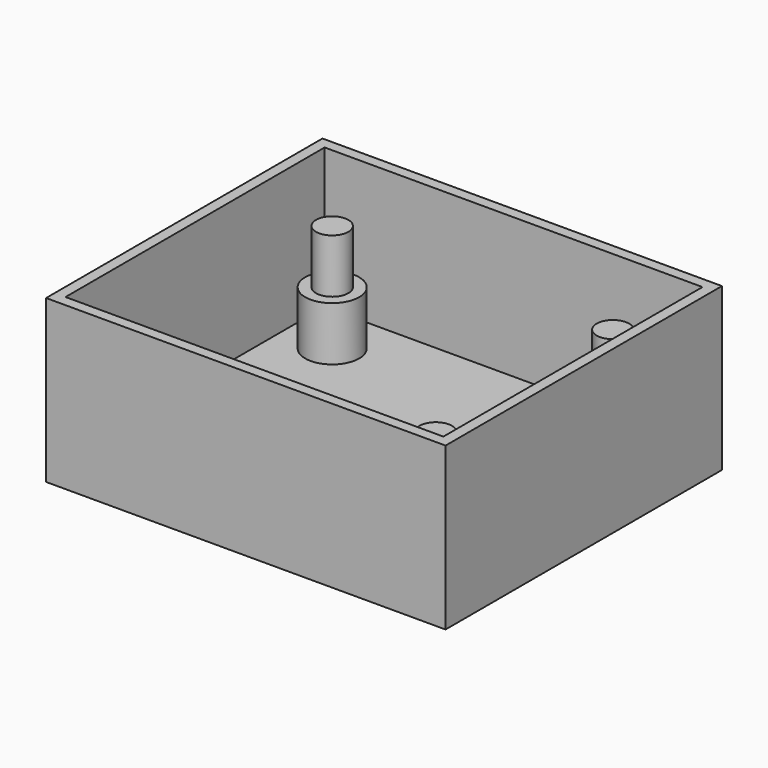
from build123d import *

# Parameters (mm, degrees)
F1_W     = 37
F1_H     = 32
F2_DEPTH = 15
F3_W     = 35
F3_H     = 30
F4_DEPTH = 13
F5_R     = 2.5
F5_R_2   = 1.5
F6_DEPTH = 5
F7_DEPTH = 10


with BuildPart() as f2:
    # F1 (on Top) → F2 (new body)
    with BuildSketch(Plane.XY):
        Rectangle(F1_W, F1_H)
    extrude(amount=F2_DEPTH)

    # F3 (on face) → F4 (cut)
    with BuildSketch(Plane.XY.offset(15)):
        Rectangle(F3_W, F3_H)
    extrude(amount=-F4_DEPTH, mode=Mode.SUBTRACT)

    # F5 (on face) → F6 (join)
    with BuildSketch(Plane.XY.offset(2)):
        with Locations((-13, 10.25)):
            Circle(F5_R)
        with Locations((-13, 10.25)):
            Circle(F5_R_2, mode=Mode.SUBTRACT)
        with Locations((13, 10.25)):
            Circle(F5_R)
        with Locations((13, 10.25)):
            Circle(F5_R_2, mode=Mode.SUBTRACT)
        with Locations((13, -10.25)):
            Circle(F5_R)
        with Locations((13, -10.25)):
            Circle(F5_R_2, mode=Mode.SUBTRACT)
        with Locations((-13, 10.25)):
            Circle(F5_R_2)
        with Locations((13, 10.25)):
            Circle(F5_R_2)
        with Locations((13, -10.25)):
            Circle(F5_R_2)
    extrude(amount=F6_DEPTH)

    # F5 (on face) → F7 (join)
    with BuildSketch(Plane.XY.offset(2)):
        with Locations((-13, 10.25)):
            Circle(F5_R_2)
        with Locations((13, 10.25)):
            Circle(F5_R_2)
        with Locations((13, -10.25)):
            Circle(F5_R_2)
    extrude(amount=F7_DEPTH)


solid = f2.part
